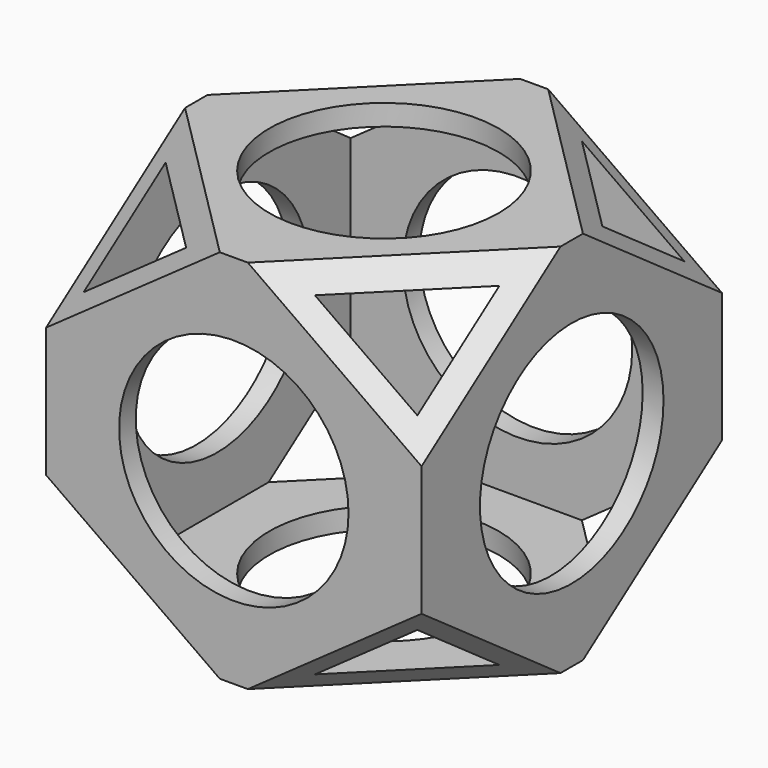
from build123d import *

# Parameters (mm, degrees)
SKETCH_W             = 90
SKETCH_H             = 90
PAD_DEPTH            = 45
SKETCH001_W          = 80
SKETCH001_H          = 80
POCKET_DEPTH         = 40
SKETCH002_R          = 27.5
POCKET001_DEPTH      = 45.001
POCKET001_DEPTH_BACK = -45.001
SKETCH003_R          = 27.5
POCKET002_DEPTH      = 45.001
POCKET002_DEPTH_BACK = -45.001
SKETCH004_R          = 27.5
POCKET003_DEPTH      = 45.001
POCKET003_DEPTH_BACK = -45.001
POCKET004_DEPTH      = 63.64061
POCKET004_DEPTH_BACK = -63.64061
POCKET005_DEPTH      = 63.64061
POCKET005_DEPTH_BACK = -63.64061


with BuildPart() as part:
    # Sketch → Pad (new body, symmetric)
    with BuildSketch(Plane.XY):
        Rectangle(SKETCH_W, SKETCH_H)
    extrude(amount=PAD_DEPTH, both=True)

    # Sketch001 → Pocket (cut, symmetric)
    with BuildSketch(Plane.XY):
        Rectangle(SKETCH001_W, SKETCH001_H)
    extrude(amount=POCKET_DEPTH, both=True, mode=Mode.SUBTRACT)

    # Sketch002 → Pocket001 (cut, two sides)
    with BuildSketch(Plane.XY) as pocket001_sk:
        Circle(SKETCH002_R)
    extrude(amount=-POCKET001_DEPTH, mode=Mode.SUBTRACT)
    extrude(pocket001_sk.sketch, amount=-POCKET001_DEPTH_BACK, mode=Mode.SUBTRACT)

    # Sketch003 → Pocket002 (cut, two sides)
    with BuildSketch(Plane.XZ) as pocket002_sk:
        Circle(SKETCH003_R)
    extrude(amount=-POCKET002_DEPTH, mode=Mode.SUBTRACT)
    extrude(pocket002_sk.sketch, amount=-POCKET002_DEPTH_BACK, mode=Mode.SUBTRACT)

    # Sketch004 → Pocket003 (cut, two sides)
    with BuildSketch(Plane.YZ) as pocket003_sk:
        Circle(SKETCH004_R)
    extrude(amount=-POCKET003_DEPTH, mode=Mode.SUBTRACT)
    extrude(pocket003_sk.sketch, amount=-POCKET003_DEPTH_BACK, mode=Mode.SUBTRACT)

    # Sketch005 → Pocket004 (cut, two sides)
    with BuildSketch(Plane(origin=(0, 0, 0), x_dir=(0.707107, 0.707107, 0), z_dir=(0.707107, -0.707107, 0))) as pocket004_sk:
        Polygon((-65, 14.195959), (-65, 50), (-29.195959, 50), align=None)
        Polygon((29.195959, 50), (65, 50), (65, 14.195959), align=None)
        Polygon((-65, -14.195959), (-65, -50), (-29.195959, -50), align=None)
        Polygon((29.195959, -50), (65, -50), (65, -14.195959), align=None)
    extrude(amount=-POCKET004_DEPTH, mode=Mode.SUBTRACT)
    extrude(pocket004_sk.sketch, amount=-POCKET004_DEPTH_BACK, mode=Mode.SUBTRACT)

    # Sketch006 → Pocket005 (cut, two sides)
    with BuildSketch(Plane(origin=(0, 0, 0), x_dir=(0.707107, -0.707107, 0), z_dir=(-0.707107, -0.707107, 0))) as pocket005_sk:
        Polygon((-65, 50), (-65, 14.195959), (-29.195959, 50), align=None)
        Polygon((29.195959, 50), (65, 50), (65, 14.195959), align=None)
        Polygon((65, -14.195959), (65, -50), (29.195959, -50), align=None)
        Polygon((-65, -14.195959), (-65, -50), (-29.195959, -50), align=None)
    extrude(amount=-POCKET005_DEPTH, mode=Mode.SUBTRACT)
    extrude(pocket005_sk.sketch, amount=-POCKET005_DEPTH_BACK, mode=Mode.SUBTRACT)


solid = part.part
